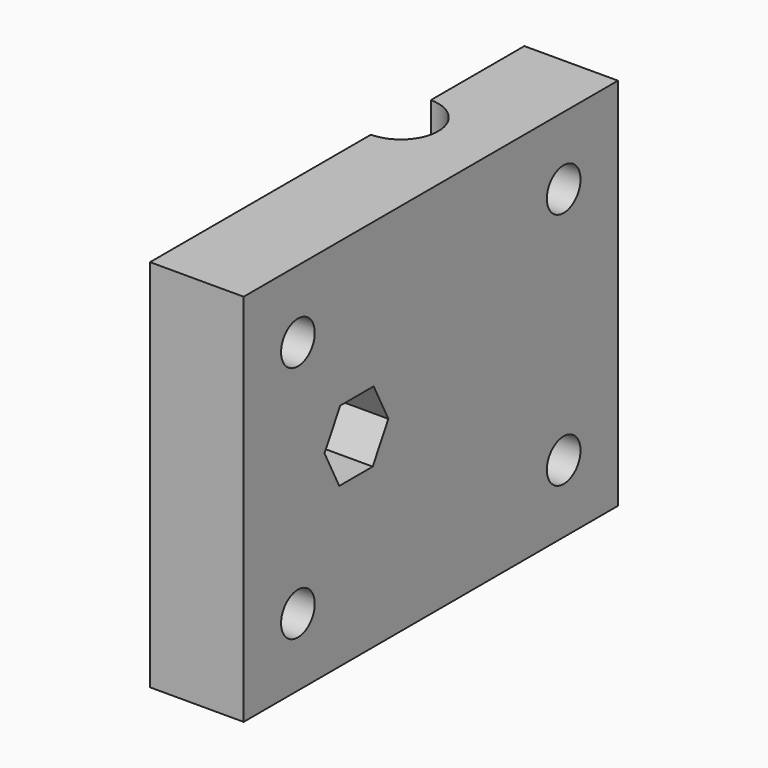
from build123d import *

# Parameters (mm, degrees)
F1_DEPTH = 40
F2_R     = 2.25
F3_DEPTH = 10.001


with BuildPart() as f1:
    # F0 (on Top) → F1 (new body)
    with BuildSketch(Plane.XY):
        with BuildLine():
            Line((0, -25), (10, -25))
            Line((10, -25), (10, 25))
            Line((10, 25), (0, 25))
            Line((0, 25), (0, 12.5))
            ThreePointArc((0, 12.5), (4, 8.5), (0, 4.5))
            Line((0, 4.5), (0, -25))
        make_face()
    extrude(amount=F1_DEPTH)

    # F2 (on face) → F3 (cut, through all)
    with BuildSketch(Plane.YZ.offset(10)):
        with Locations((-17.75, 32.75)):
            Circle(F2_R)
        with Locations((17.75, 32.75)):
            Circle(F2_R)
        with Locations((17.75, 7.25)):
            Circle(F2_R)
        with Locations((-17.75, 7.25)):
            Circle(F2_R)
        Polygon((-5.667031, 20.651174), (-7.631395, 24.510096), (-12.099588, 24.510096), (-14.193734, 20.869017), (-12.22937, 17.010096), (-7.761177, 17.010096), align=None)
    extrude(amount=-F3_DEPTH, mode=Mode.SUBTRACT)


solid = f1.part
